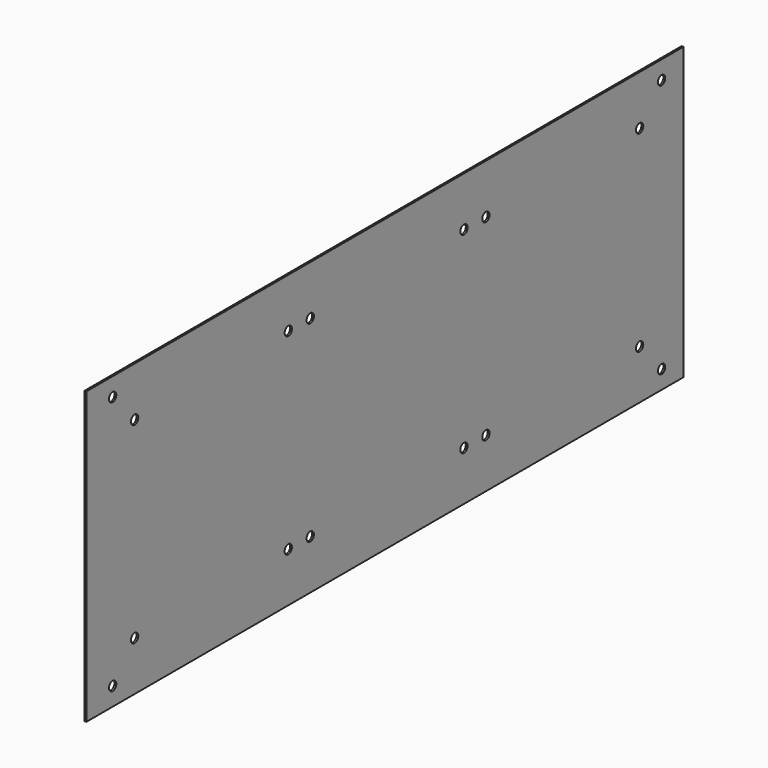
from build123d import *

# Parameters (mm, degrees)
F0_W      = 415
F0_H      = 169
F1_DEPTH  = 24
F2_W      = 413
F2_H      = 167
F3_DEPTH  = 23
F5_DEPTH  = 415.001
F6_R      = 1.5
F7_DEPTH  = 415.001
F8_R      = 2.5
F9_DEPTH  = 1
F10_W     = 408
F10_H     = 159
F11_DEPTH = 24.001
F12_R     = 2.5
F13_DEPTH = 1


with BuildPart() as f1:
    # F0 (on Right) → F1 (new body)
    with BuildSketch(Plane.YZ):
        Rectangle(F0_W, F0_H)
    extrude(amount=F1_DEPTH)

    # F2 (on face) → F3 (cut)
    with BuildSketch(Plane.YZ.offset(24)):
        Rectangle(F2_W, F2_H)
    extrude(amount=-F3_DEPTH, mode=Mode.SUBTRACT)

    # F4 (on face) → F5 (cut, through all)
    with BuildSketch(Plane.XZ.offset(207.5)):
        with BuildLine():
            Line((8, -83.5), (24, -83.5))
            Line((24, -83.5), (24, -75.5))
            Line((24, -75.5), (19.5, -77.5))
            Line((19.5, -77.5), (18, -76.5))
            Line((18, -76.5), (18, -64.5))
            ThreePointArc((18, -64.5), (13, -59.5), (8, -64.5))
            Line((8, -64.5), (8, -83.5))
        make_face()
        with BuildLine():
            Line((18, 64.5), (18, 76.5))
            Line((18, 76.5), (19.5, 77.5))
            Line((19.5, 77.5), (24, 75.5))
            Line((24, 75.5), (24, 83.5))
            Line((24, 83.5), (8, 83.5))
            Line((8, 83.5), (8, 64.5))
            ThreePointArc((8, 64.5), (13, 59.5), (18, 64.5))
        make_face()
    extrude(amount=-F5_DEPTH, mode=Mode.SUBTRACT)

    # F6 (on face) → F7 (cut, through all)
    with BuildSketch(Plane.XZ.offset(207.5)):
        with Locations((12.5, 50.5)):
            Circle(F6_R)
    extrude(amount=-F7_DEPTH, mode=Mode.SUBTRACT)

    # F8 (on face) → F9 (cut, through all)
    with BuildSketch(Plane(origin=(0, 0, 0), x_dir=(0, -1, 0), z_dir=(-1, 0, 0))):
        with Locations((-172.5, 52.5)):
            Circle(F8_R)
        with Locations((-67.5, 52.5)):
            Circle(F8_R)
        with Locations((-52.5, 52.5)):
            Circle(F8_R)
        with Locations((-67.5, -52.5)):
            Circle(F8_R)
        with Locations((-172.5, -52.5)):
            Circle(F8_R)
        with Locations((-52.5, -52.5)):
            Circle(F8_R)
        with Locations((67.5, -52.5)):
            Circle(F8_R)
        with Locations((52.5, 52.5)):
            Circle(F8_R)
        with Locations((67.5, 52.5)):
            Circle(F8_R)
        with Locations((172.5, 52.5)):
            Circle(F8_R)
        with Locations((172.5, -52.5)):
            Circle(F8_R)
        with Locations((52.5, -52.5)):
            Circle(F8_R)
    extrude(amount=-F9_DEPTH, mode=Mode.SUBTRACT)

    # F10 (on face) → F11 (cut, through all)
    with BuildSketch(Plane(origin=(0, 0, 0), x_dir=(0, -1, 0), z_dir=(-1, 0, 0))):
        Polygon((207.5, 84.5), (-207.5, 84.5), (-207.5, 79.5), (-207.5, -79.5), (-207.5, -84.5), (207.5, -84.5), (207.5, -79.5), (207.5, 79.5), align=None)
        with Locations((1.5, 0)):
            Rectangle(F10_W, F10_H, mode=Mode.SUBTRACT)
    extrude(amount=-F11_DEPTH, mode=Mode.SUBTRACT)

    # F12 (on face) → F13 (cut, through all)
    with BuildSketch(Plane(origin=(0, 0, 0), x_dir=(0, -1, 0), z_dir=(-1, 0, 0))):
        with Locations((-187.5, 69.5)):
            Circle(F12_R)
        with Locations((-187.5, -69.5)):
            Circle(F12_R)
        with Locations((187.5, 69.5)):
            Circle(F12_R)
        with Locations((187.5, -69.5)):
            Circle(F12_R)
    extrude(amount=-F13_DEPTH, mode=Mode.SUBTRACT)


solid = f1.part
